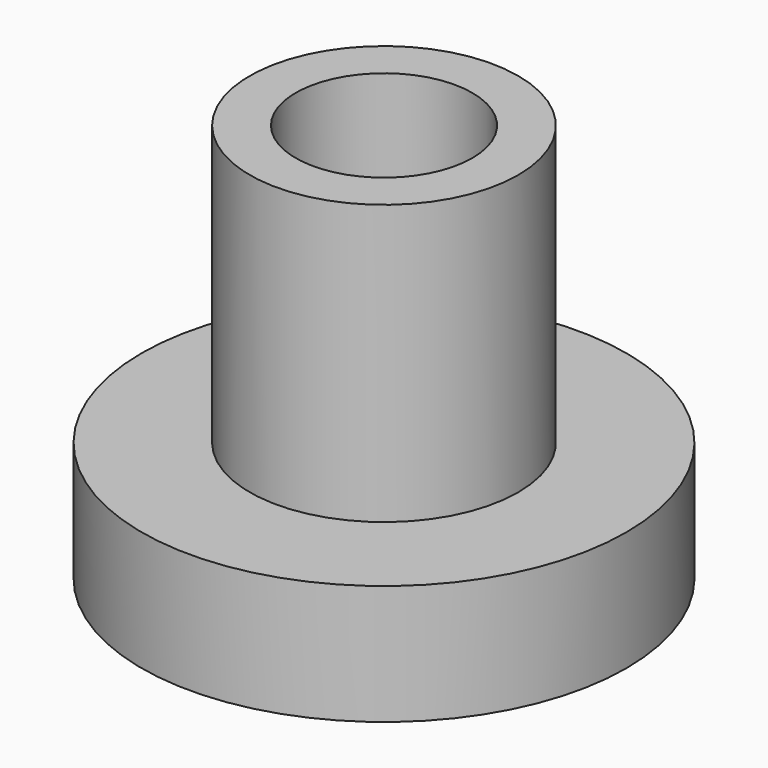
from build123d import *

# Parameters (mm, degrees)
F0_R     = 38.583475
F1_DEPTH = 19.05
F2_R     = 21.368169
F3_DEPTH = 44.45
F4_R     = 14.054868
F5_DEPTH = 63.5
F6_DEPTH = 63.5


with BuildPart() as f1:
    # F0 (on Top) → F1 (new body)
    with BuildSketch(Plane.XY):
        Circle(F0_R)
    extrude(amount=F1_DEPTH)

    # F2 (on face) → F3 (join)
    with BuildSketch(Plane.XY.offset(19.05)):
        Circle(F2_R)
    extrude(amount=F3_DEPTH)

    # F4 (on face) → F5 (join)
    with BuildSketch(Plane.XY.offset(63.5)):
        Circle(F4_R)
    extrude(amount=-F5_DEPTH)

    # F4 (on face) → F6 (cut)
    with BuildSketch(Plane.XY.offset(63.5)):
        Circle(F4_R)
    extrude(amount=-F6_DEPTH, mode=Mode.SUBTRACT)


solid = f1.part
